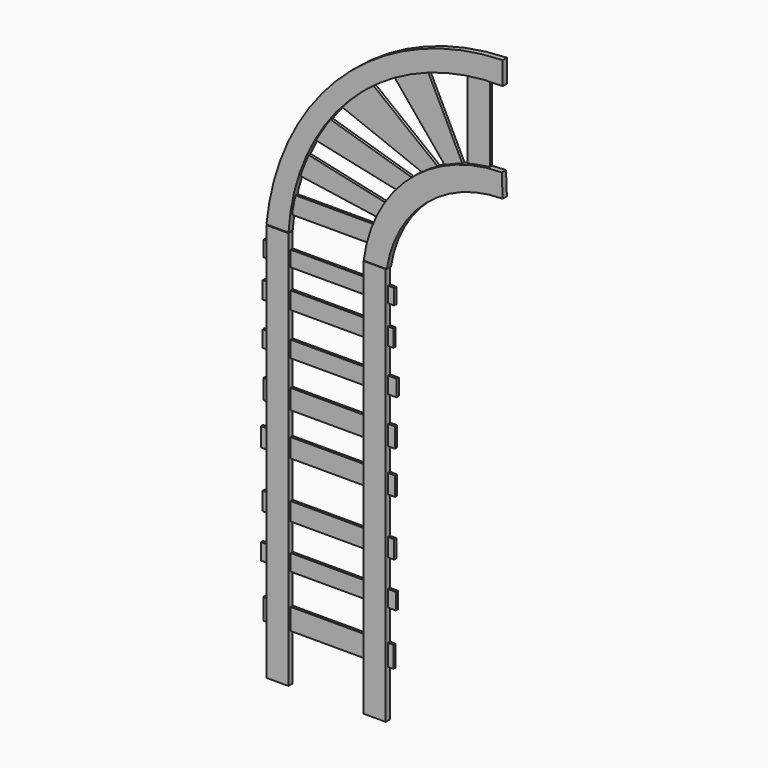
from build123d import *

# Parameters (mm, degrees)
F0_W     = 5.3086
F0_H     = 95.581103
F0_H_2   = 95.5802
F1_DEPTH = 1.27
F2_W     = 31.338068
F2_H     = 4.113121
F2_W_2   = 32.121519
F2_H_2   = 3.917256
F2_W_3   = 31.533929
F2_H_3   = 4.70071
F2_H_4   = 4.504847
F2_W_4   = 31.53393
F2_H_5   = 4.308983
F2_W_5   = 32.31738
F2_H_6   = 3.917258
F2_W_6   = 31.142203
F2_H_7   = 5.092438
F2_W_7   = 31.338067
F2_H_8   = 3.721397
F3_DEPTH = 0.635
F7_DEPTH = 1.27
F8_DEPTH = 0.635


with BuildPart() as f1:
    # F0 (on Front) → F1 (new body)
    with BuildSketch(Plane.XZ):
        with Locations((6.787726, 2.840014)):
            Rectangle(F0_W, F0_H)
        with Locations((-16.540268, 2.839563)):
            Rectangle(F0_W, F0_H_2)
    extrude(amount=F1_DEPTH)

    # F2 (on Front) → F3 (join)
    with BuildSketch(Plane.XZ):
        with Locations((-4.896573, 36.23464)):
            Rectangle(F2_W, F2_H)
        with Locations((-4.504848, 25.951837)):
            Rectangle(F2_W_2, F2_H_2)
        with Locations((-4.602777, 15.375239)):
            Rectangle(F2_W_3, F2_H_3)
        with Locations((-4.896572, 5.092435)):
            Rectangle(F2_W_2, F2_H_4)
        with Locations((-4.798642, -8.324174)):
            Rectangle(F2_W_4, F2_H_5)
        with Locations((-4.798642, -19.096635)):
            Rectangle(F2_W_5, F2_H_6)
        with Locations((-4.79864, -31.044273)):
            Rectangle(F2_W_6, F2_H_7)
        with Locations((-4.700711, 45.048469)):
            Rectangle(F2_W_7, F2_H_8)
    extrude(amount=F3_DEPTH)


with BuildPart() as f7:
    # F4 (on Front) + F5 (on Front) → F7 (new body)
    with BuildSketch(Plane.XZ):
        with BuildLine():
            ThreePointArc((9.701273, 50.729942), (19.175977, 67.812709), (37.488302, 74.613422))
            Line((37.488302, 74.613422), (37.272278, 80.102906))
            ThreePointArc((37.272278, 80.102906), (15.19967, 71.629303), (4.156627, 50.723485))
            Line((4.156627, 50.723485), (9.701273, 50.729942))
        make_face()
    with BuildSketch(Plane.XZ):
        with BuildLine():
            ThreePointArc((-13.868733, 50.77798), (2.255422, 84.90094), (37.500944, 98.396048))
            Line((37.500944, 98.396048), (37.500944, 103.883989))
            ThreePointArc((37.500944, 103.883989), (-0.856302, 88.045673), (-19.15333, 50.798534))
            Line((-19.15333, 50.798534), (-13.868733, 50.77798))
        make_face()
    extrude(amount=F7_DEPTH)


with BuildPart() as f8:
    # F6 (on Front) → F8 (new body)
    with BuildSketch(Plane.XZ):
        Polygon((-12.741525, 58.760706), (-13.536491, 54.409306), (4.707173, 54.409306), (6.151899, 58.760706), align=None)
        Polygon((33.919547, 79.878546), (33.919547, 98.344117), (28.544594, 97.737268), (28.544594, 78.924924), align=None)
        Polygon((5.727119, 88.190352), (-1.981236, 81.219031), (17.592501, 73.544174), (21.48488, 75.879604), align=None)
        Polygon((18.969956, 95.419877), (10.796764, 91.692897), (23.041829, 76.852694), (27.30779, 78.521498), align=None)
        Polygon((-4.383258, 77.526839), (-7.900867, 71.989861), (11.61355, 67.784742), (15.120646, 71.616568), align=None)
        Polygon((9.0157, 64.212695), (-9.558925, 68.304308), (-11.572259, 63.238502), (7.067312, 60.510758), align=None)
    extrude(amount=F8_DEPTH)


solid = Compound([f1.part, f7.part, f8.part])
